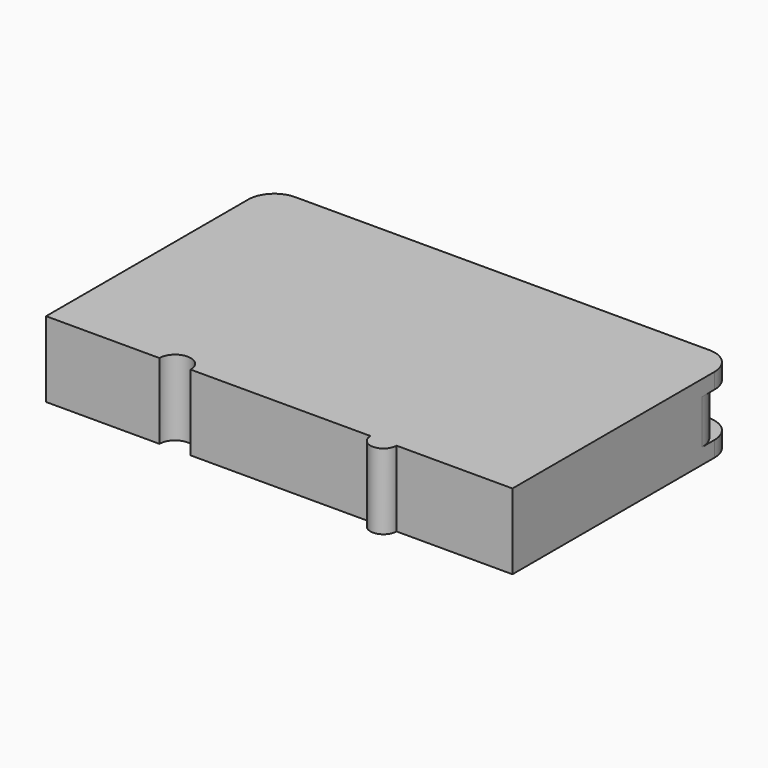
from build123d import *

# Parameters (mm, degrees)
F1_DEPTH = 3.683
F2_DEPTH = 2.159


with BuildPart() as f1:
    # F0 (on Top) → F1 (new body, symmetric)
    with BuildSketch(Plane.XY):
        with BuildLine():
            Line((-22.733, 24.638), (-22.733, 23.114))
            ThreePointArc((-22.733, 23.114), (-21.989051, 24.910051), (-20.193, 25.654))
            Line((-20.193, 25.654), (20.193, 25.654))
            ThreePointArc((20.193, 25.654), (21.989051, 24.910051), (22.733, 23.114))
            Line((22.733, 23.114), (22.733, 24.638))
            ThreePointArc((22.733, 24.638), (21.989051, 26.434051), (20.193, 27.178))
            Line((20.193, 27.178), (-20.193, 27.178))
            ThreePointArc((-20.193, 27.178), (-21.989051, 26.434051), (-22.733, 24.638))
        make_face()
        with BuildLine():
            Line((-22.733, 23.114), (-22.733, 0))
            Line((-22.733, 0), (-11.684, 0))
            ThreePointArc((-11.684, 0), (-10.16, 1.524), (-8.636, 0))
            Line((-8.636, 0), (8.89, 0))
            Line((8.89, 0), (11.43, 0))
            Line((11.43, 0), (22.733, 0))
            Line((22.733, 0), (22.733, 23.114))
            ThreePointArc((22.733, 23.114), (21.989051, 24.910051), (20.193, 25.654))
            Line((20.193, 25.654), (-20.193, 25.654))
            ThreePointArc((-20.193, 25.654), (-21.989051, 24.910051), (-22.733, 23.114))
        make_face()
        with BuildLine():
            Line((11.43, 0), (8.89, 0))
            ThreePointArc((8.89, 0), (10.16, -1.27), (11.43, 0))
        make_face()
    extrude(amount=F1_DEPTH, both=True)

    # F0 (on Top) → F2 (cut, symmetric)
    with BuildSketch(Plane.XY):
        with BuildLine():
            Line((-22.733, 24.638), (-22.733, 23.114))
            ThreePointArc((-22.733, 23.114), (-21.989051, 24.910051), (-20.193, 25.654))
            Line((-20.193, 25.654), (20.193, 25.654))
            ThreePointArc((20.193, 25.654), (21.989051, 24.910051), (22.733, 23.114))
            Line((22.733, 23.114), (22.733, 24.638))
            ThreePointArc((22.733, 24.638), (21.989051, 26.434051), (20.193, 27.178))
            Line((20.193, 27.178), (-20.193, 27.178))
            ThreePointArc((-20.193, 27.178), (-21.989051, 26.434051), (-22.733, 24.638))
        make_face()
    extrude(amount=F2_DEPTH, both=True, mode=Mode.SUBTRACT)


solid = f1.part
